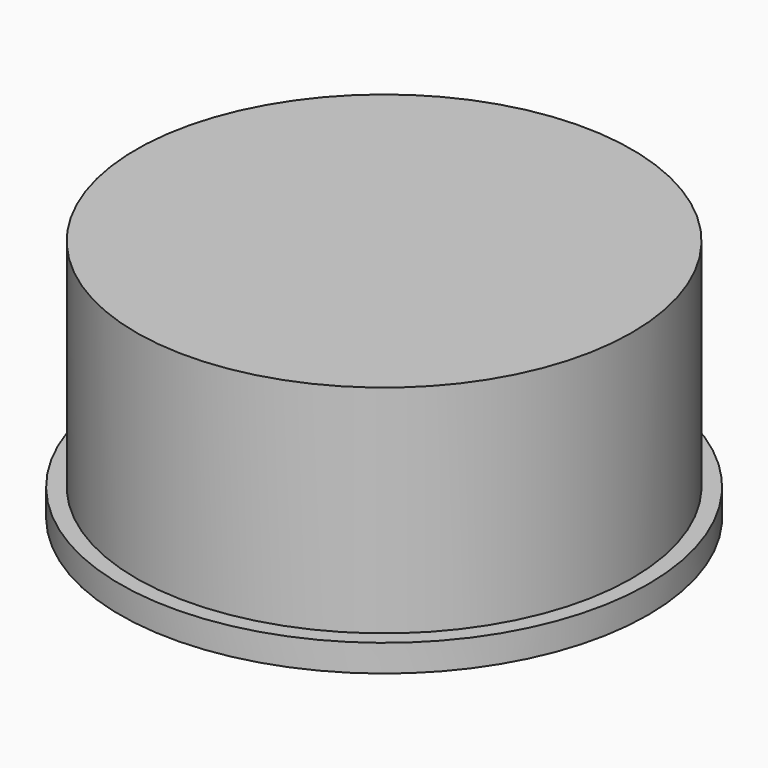
from build123d import *

# Parameters (mm, degrees)
F0_R     = 58.212298
F1_DEPTH = 50.8
F2_R     = 61.985774
F2_R_2   = 55.110063
F3_DEPTH = 6.35


with BuildPart() as f1:
    # F0 (on Top) → F1 (new body)
    with BuildSketch(Plane.XY):
        Circle(F0_R)
    extrude(amount=F1_DEPTH)

    # F2 (on face) → F3 (join)
    with BuildSketch(Plane(origin=(0, 0, 0), x_dir=(1, 0, 0), z_dir=(0, 0, -1))):
        Circle(F2_R)
        Circle(F2_R_2, mode=Mode.SUBTRACT)
    extrude(amount=F3_DEPTH)


solid = f1.part
